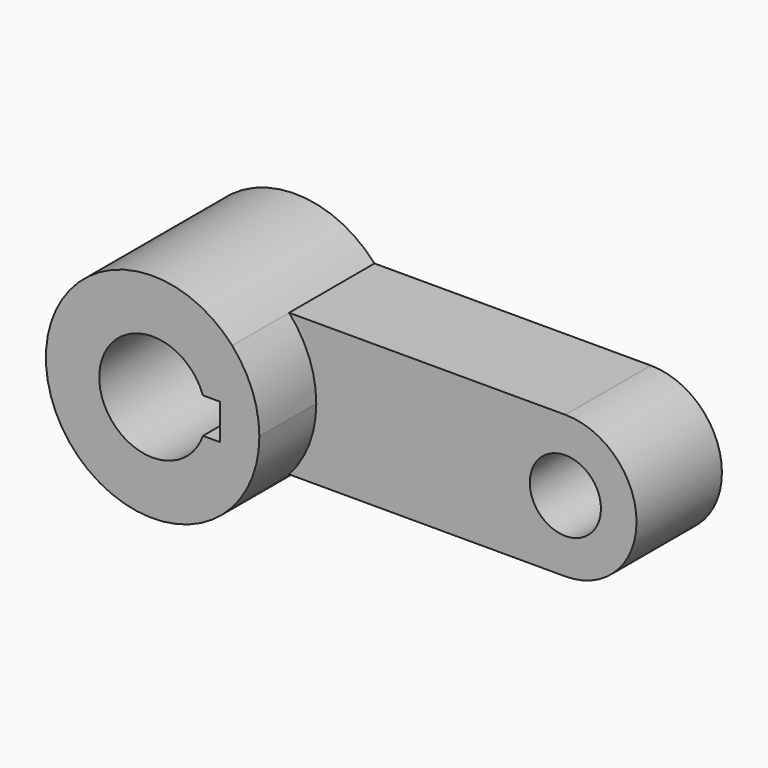
from build123d import *

# Parameters (mm, degrees)
F0_R     = 5
F1_DEPTH = 15
F2_DEPTH = 25


with BuildPart() as f1:
    # F0 (on Front) → F1 (new body)
    with BuildSketch(Plane.XZ):
        with BuildLine():
            ThreePointArc((11.18034, -10), (14.012585, -5.352331), (15, 0))
            ThreePointArc((15, 0), (14.012585, 5.352331), (11.18034, 10))
            ThreePointArc((11.18034, 10), (-15, 0), (11.18034, -10))
        make_face()
        with BuildLine():
            ThreePointArc((7.071068, -2.5), (-7.5, 0), (7.071068, 2.5))
            Line((7.071068, 2.5), (9.5, 2.5))
            Line((9.5, 2.5), (9.5, 0))
            Line((9.5, 0), (9.5, -2.5))
            Line((9.5, -2.5), (7.071068, -2.5))
        make_face(mode=Mode.SUBTRACT)
        with BuildLine():
            ThreePointArc((11.18034, 10), (14.012585, 5.352331), (15, 0))
            ThreePointArc((15, 0), (14.012585, -5.352331), (11.18034, -10))
            Line((11.18034, -10), (50, -10))
            ThreePointArc((50, -10), (60, 0), (50, 10))
            Line((50, 10), (11.18034, 10))
        make_face()
        with Locations((50, 0)):
            Circle(F0_R, mode=Mode.SUBTRACT)
    extrude(amount=F1_DEPTH)

    # F0 (on Front) → F2 (join)
    with BuildSketch(Plane.XZ):
        with BuildLine():
            ThreePointArc((11.18034, -10), (14.012585, -5.352331), (15, 0))
            ThreePointArc((15, 0), (14.012585, 5.352331), (11.18034, 10))
            ThreePointArc((11.18034, 10), (-15, 0), (11.18034, -10))
        make_face()
        with BuildLine():
            ThreePointArc((7.071068, -2.5), (-7.5, 0), (7.071068, 2.5))
            Line((7.071068, 2.5), (9.5, 2.5))
            Line((9.5, 2.5), (9.5, 0))
            Line((9.5, 0), (9.5, -2.5))
            Line((9.5, -2.5), (7.071068, -2.5))
        make_face(mode=Mode.SUBTRACT)
    extrude(amount=F2_DEPTH)


solid = f1.part
